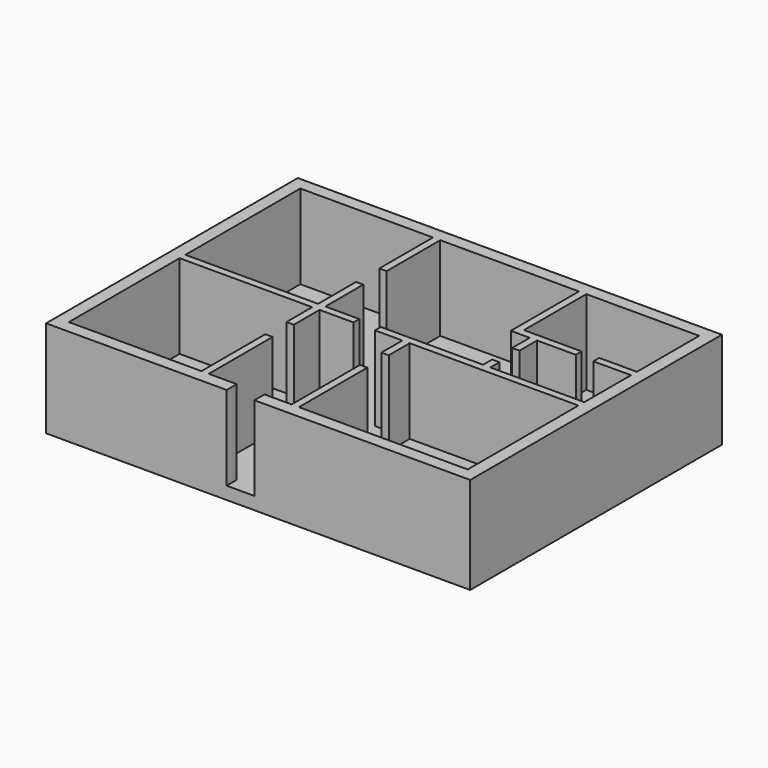
from build123d import *

# Parameters (mm, degrees)
F0_W      = 127.8839372098
F0_H      = 94.8674269021
F1_DEPTH  = 3.81
F2_W      = 127.8839372098
F2_H      = 94.8674269021
F2_W_2    = 120.2639372098
F2_H_2    = 87.2474269021
F3_DEPTH  = 25.4
F5_DEPTH  = 25.4
F6_W      = 2.2098
F6_H      = 41.744076617
F7_DEPTH  = 25.4
F9_DEPTH  = 25.4
F11_DEPTH = 25.4
F12_W     = 2.2098
F12_H     = 17.600103577
F13_DEPTH = 25.4
F14_W     = 2.2098
F14_H     = 23.4836467081
F15_DEPTH = 25.4
F17_DEPTH = 25.4
F19_DEPTH = 25.4
F21_DEPTH = 9.652
F23_DEPTH = 6.3754
F25_DEPTH = 11.43
F27_DEPTH = 11.43
F29_DEPTH = 10.414


with BuildPart() as f1:
    # F0 (on Top) → F1 (new body)
    with BuildSketch(Plane.XY):
        with Locations((-7.0435199887, -0.3301631659)):
            Rectangle(F0_W, F0_H)
    extrude(amount=F1_DEPTH)

    # F2 (on face) → F3 (join)
    with BuildSketch(Plane.XY.offset(3.81)):
        with Locations((-7.0435199887, -0.3301631659)):
            Rectangle(F2_W, F2_H)
        with Locations((-7.0435199887, -0.3301631659)):
            Rectangle(F2_W_2, F2_H_2, mode=Mode.SUBTRACT)
    extrude(amount=F3_DEPTH)

    # F4 (on face) → F5 (join)
    with BuildSketch(Plane.XY.offset(3.81)):
        Polygon((-24.9860885936, -2.2098), (-24.9860885936, 0), (-24.9824896455, 0), (-24.9824896455, 43.2935502851), (-27.1835904568, 43.2935502851), (-27.1835904568, 0), (-67.1754885936, 0), (-67.1754885936, -2.2098), align=None)
    extrude(amount=F5_DEPTH)

    # F6 (on face) → F7 (join)
    with BuildSketch(Plane.XY.offset(3.81)):
        with Locations((-26.0909885936, -23.0818383085)):
            Rectangle(F6_W, F6_H)
    extrude(amount=F7_DEPTH)

    # F8 (on face) → F9 (join)
    with BuildSketch(Plane.XY.offset(3.81)):
        Polygon((0, 0), (0, -43.953876617), (2.2098, -43.953876617), (2.2098, -2.2098), (53.0884486163, -2.2098), (53.0884486163, 0), align=None)
    extrude(amount=F9_DEPTH)

    # F10 (on face) → F11 (join)
    with BuildSketch(Plane.XY.offset(3.81)):
        Polygon((0, 0), (-24.9824896455, 0), (-26.9634798169, 0), (-26.9634798169, -2.2098), (-24.9860885936, -2.2098), (0, -2.2098), align=None)
    extrude(amount=F11_DEPTH)

    # F12 (on face) → F13 (join)
    with BuildSketch(Plane.XY.offset(3.81)):
        with Locations((23.6661800568, 8.8000517885)):
            Rectangle(F12_W, F12_H)
        Polygon((22.5612800568, 19.809903577), (22.5612800568, 17.600103577), (24.7710800568, 17.600103577), (53.0884486163, 17.600103577), (53.0884486163, 19.809903577), align=None)
    extrude(amount=F13_DEPTH)

    # F14 (on face) → F15 (join)
    with BuildSketch(Plane.XY.offset(3.81)):
        Polygon((53.0884486163, 17.600103577), (53.0884486163, 19.809903577), (19.0482183198, 19.809903577), (16.8384183198, 19.809903577), (16.8384183198, 17.600103577), align=None)
        with Locations((17.9433183198, 31.551726931)):
            Rectangle(F14_W, F14_H)
    extrude(amount=F15_DEPTH)

    # F16 (on face) → F17 (cut)
    with BuildSketch(Plane(origin=(0, -43.953876617, 0), x_dir=(-1, 0, 0), z_dir=(0, 1, 0))):
        Polygon((8.1807011738, 22.1107043326), (8.1807011738, 3.81), (16.5439341217, 3.81), (16.5439341217, 22.1107043326), (16.5439341217, 31.9952704012), (8.1807011738, 31.9952704012), align=None)
    extrude(amount=-F17_DEPTH, mode=Mode.SUBTRACT)

    # F18 (on face) → F19 (cut)
    with BuildSketch(Plane(origin=(0, 0, 0), x_dir=(0, -1, 0), z_dir=(-1, 0, 0))):
        Polygon((10.1021090522, 23.6382391304), (10.1021090522, 3.81), (18.1610379368, 3.81), (18.1610379368, 23.6382391304), (18.1610379368, 31.1116781086), (10.1021090522, 31.1116781086), align=None)
    extrude(amount=-F19_DEPTH, mode=Mode.SUBTRACT)

    # F20 (on face) → F21 (cut)
    with BuildSketch(Plane(origin=(-27.1958885936, 0, 0), x_dir=(0, -1, 0), z_dir=(-1, 0, 0))):
        Polygon((11.8822744116, 20.1589465141), (11.8822744116, 3.81), (19.8594387621, 3.81), (19.8594387621, 20.1589465141), (19.8594387621, 31.4402878284), (11.8822744116, 31.4402878284), align=None)
    extrude(amount=-F21_DEPTH, mode=Mode.SUBTRACT)

    # F22 (on face) → F23 (cut)
    with BuildSketch(Plane(origin=(-27.1835904568, 0, 0), x_dir=(0, -1, 0), z_dir=(-1, 0, 0))):
        Polygon((-23.0946410447, 19.9922583997), (-23.0946410447, 3.81), (-14.3088679761, 3.81), (-14.3088679761, 19.9922583997), (-14.3088679761, 32.4732325971), (-23.0946410447, 32.4732325971), align=None)
    extrude(amount=-F23_DEPTH, mode=Mode.SUBTRACT)

    # F24 (on face) → F25 (cut)
    with BuildSketch(Plane(origin=(22.5612800568, 0, 0), x_dir=(0, -1, 0), z_dir=(-1, 0, 0))):
        Polygon((-10.9547926113, 22.2612097859), (-10.9547926113, 3.81), (-3.4168059938, 3.81), (-3.4168059938, 22.2612097859), (-3.4168059938, 32.5798727572), (-10.9547926113, 32.5798727572), align=None)
    extrude(amount=-F25_DEPTH, mode=Mode.SUBTRACT)

    # F26 (on face) → F27 (cut)
    with BuildSketch(Plane.XZ.offset(-17.600103577)):
        Polygon((36.4499650896, 21.9316985458), (36.4499650896, 3.81), (41.7222119868, 3.81), (41.7222119868, 21.2429128587), (41.7222119868, 21.9316985458), (41.7222119868, 34.7188301384), (36.4499650896, 34.7188301384), align=None)
    extrude(amount=-F27_DEPTH, mode=Mode.SUBTRACT)

    # F28 (on face) → F29 (cut)
    with BuildSketch(Plane.XZ.offset(2.2098)):
        Polygon((-14.7642167285, 18.1317012757), (-14.7642167285, 3.81), (-8.2613723353, 3.81), (-8.2613723353, 18.1317012757), (-8.2613723353, 34.8567925394), (-14.7642167285, 34.8567925394), align=None)
    extrude(amount=-F29_DEPTH, mode=Mode.SUBTRACT)


solid = f1.part
